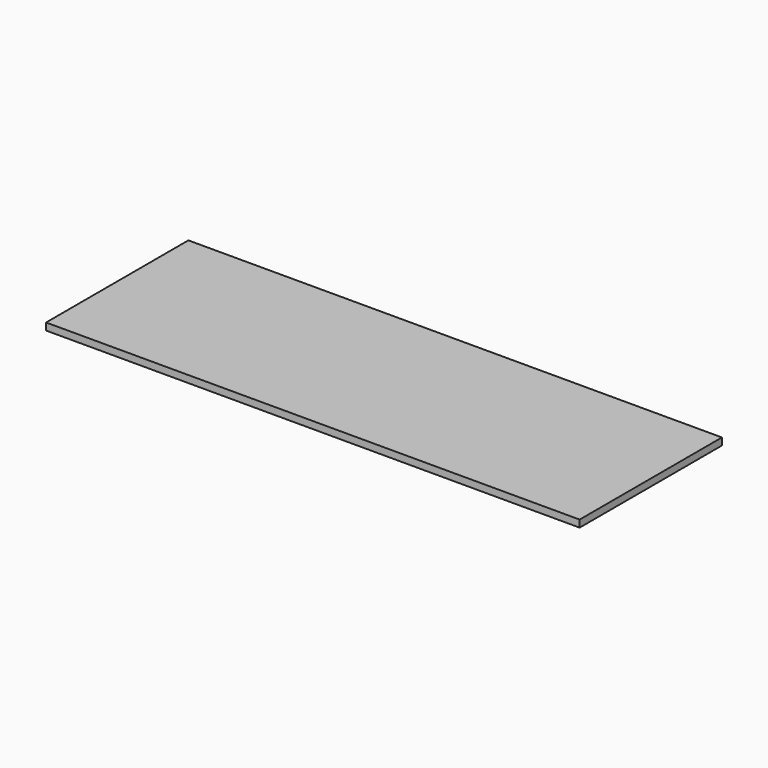
from build123d import *

# Parameters (mm, degrees)
SKETCH001_W = 150
SKETCH001_H = 50
PAD_DEPTH   = 2


with BuildPart() as part:
    # Sketch001 → Pad (new body)
    with BuildSketch(Plane.XY):
        with Locations((75, 25)):
            Rectangle(SKETCH001_W, SKETCH001_H)
    extrude(amount=PAD_DEPTH)


solid = part.part
